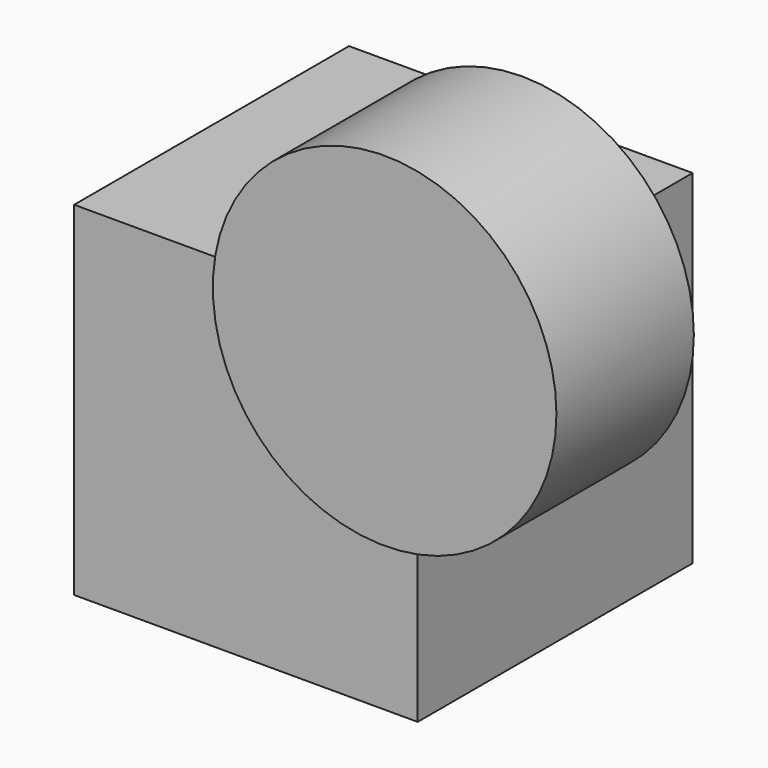
from build123d import *

# Parameters (mm, degrees)
F0_W     = 60
F0_H     = 60
F1_DEPTH = 60
F2_W     = 30
F2_H     = 30


with BuildPart() as f1:
    # F0 (on Front) → F1 (new body)
    with BuildSketch(Plane.XZ):
        with Locations((30, 30)):
            Rectangle(F0_W, F0_H)
    extrude(amount=F1_DEPTH)

    # F2 (on face) → F3 (revolve)
    with BuildSketch(Plane.XY.offset(60)):
        with Locations((75, -52.221692)):
            Rectangle(F2_W, F2_H)
    revolve(axis=Axis((60, -52.221692, 60), (0, -1, 0)))


solid = f1.part
